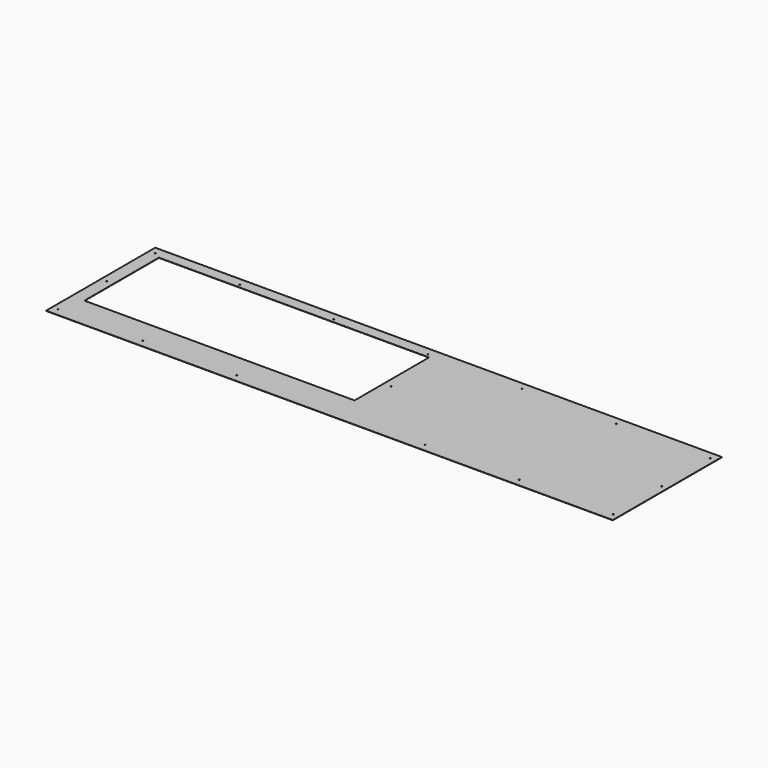
from build123d import *

# Parameters (mm, degrees)
F0_W     = 1912.3025
F0_H     = 460.248
F0_W_2   = 911.5298
F0_H_2   = 314.325
F1_DEPTH = 0.9525
F2_R     = 1.905
F3_DEPTH = 25.4


with BuildPart() as f1:
    # F0 (on Top) → F1 (new body)
    with BuildSketch(Plane.XY):
        with Locations((-2.511288, -258.409424)):
            Rectangle(F0_W, F0_H)
        with Locations((-459.781138, -223.547924)):
            Rectangle(F0_W_2, F0_H_2, mode=Mode.SUBTRACT)
    extrude(amount=F1_DEPTH)

    # F2 (on face) → F3 (cut)
    with BuildSketch(Plane(origin=(0, 0, 0), x_dir=(1, 0, 0), z_dir=(0, 0, -1))):
        with Locations((934.589962, 53.685424)):
            Circle(F2_R)
        with Locations((617.089962, 53.685424)):
            Circle(F2_R)
        with Locations((299.589962, 53.685424)):
            Circle(F2_R)
        with Locations((-17.910038, 53.685424)):
            Circle(F2_R)
        with Locations((-335.410038, 53.685424)):
            Circle(F2_R)
        with Locations((-652.910038, 53.685424)):
            Circle(F2_R)
        with Locations((-938.672738, 53.685424)):
            Circle(F2_R)
        with Locations((934.589962, 258.345924)):
            Circle(F2_R)
        with Locations((934.589962, 463.133424)):
            Circle(F2_R)
        with Locations((-938.672738, 258.345924)):
            Circle(F2_R)
        with Locations((-938.672738, 463.133424)):
            Circle(F2_R)
        with Locations((-652.910038, 463.133424)):
            Circle(F2_R)
        with Locations((-335.410038, 463.133424)):
            Circle(F2_R)
        with Locations((299.589962, 463.133424)):
            Circle(F2_R)
        with Locations((617.089962, 463.133424)):
            Circle(F2_R)
        with Locations((21.510762, 258.345924)):
            Circle(F2_R)
    extrude(amount=-F3_DEPTH, mode=Mode.SUBTRACT)


solid = f1.part
